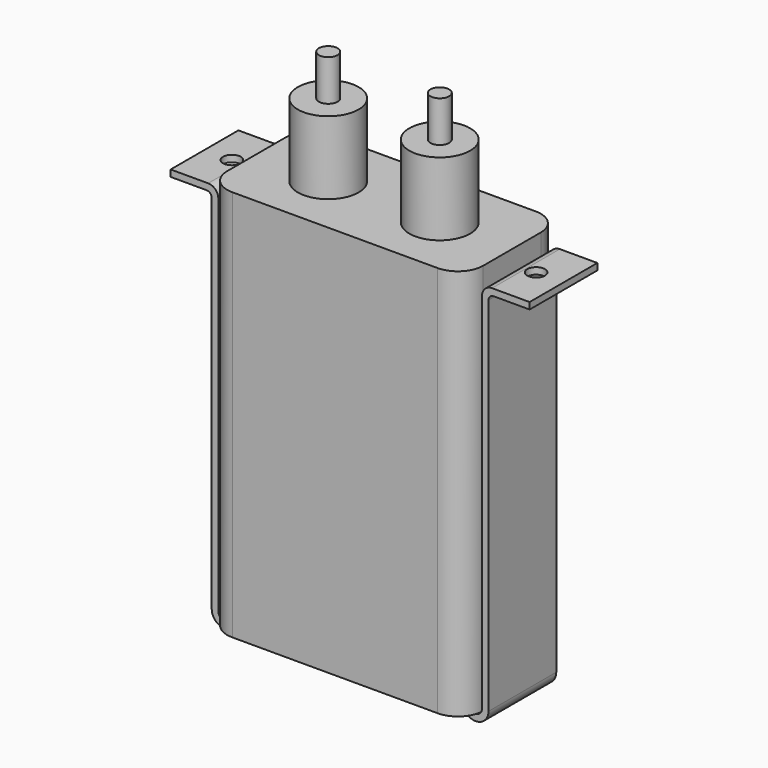
from build123d import *

# Parameters (mm, degrees)
F0_R     = 7.62
F0_R_2   = 2.3495
F1_DEPTH = 98.171
F2_DEPTH = 18.288
F3_DEPTH = 28.575
F5_DEPTH = 4.445
F7_DEPTH = 10.6045
F8_R     = 2.2225
F9_DEPTH = 2.54


with BuildPart() as f1:
    # F0 (on Top) → F1 (new body)
    with BuildSketch(Plane.XY):
        with BuildLine():
            ThreePointArc((32.0675, 9.017), (30.207628, 13.507128), (25.7175, 15.367))
            Line((25.7175, 15.367), (-25.7175, 15.367))
            ThreePointArc((-25.7175, 15.367), (-30.207628, 13.507128), (-32.0675, 9.017))
            Line((-32.0675, 9.017), (-32.0675, -9.017))
            ThreePointArc((-32.0675, -9.017), (-30.207628, -13.507128), (-25.7175, -15.367))
            Line((-25.7175, -15.367), (25.7175, -15.367))
            ThreePointArc((25.7175, -15.367), (30.207628, -13.507128), (32.0675, -9.017))
            Line((32.0675, -9.017), (32.0675, 9.017))
        make_face()
        with Locations((-13.97, 0)):
            Circle(F0_R, mode=Mode.SUBTRACT)
        with Locations((13.97, 0)):
            Circle(F0_R, mode=Mode.SUBTRACT)
        with Locations((-13.97, 0)):
            Circle(F0_R)
        with Locations((-13.97, 0)):
            Circle(F0_R_2, mode=Mode.SUBTRACT)
        with Locations((-13.97, 0)):
            Circle(F0_R_2)
        with Locations((13.97, 0)):
            Circle(F0_R)
        with Locations((13.97, 0)):
            Circle(F0_R_2, mode=Mode.SUBTRACT)
        with Locations((13.97, 0)):
            Circle(F0_R_2)
    extrude(amount=-F1_DEPTH)

    # F0 (on Top) → F2 (join)
    with BuildSketch(Plane.XY):
        with Locations((-13.97, 0)):
            Circle(F0_R)
        with Locations((-13.97, 0)):
            Circle(F0_R_2, mode=Mode.SUBTRACT)
        with Locations((-13.97, 0)):
            Circle(F0_R_2)
        with Locations((13.97, 0)):
            Circle(F0_R)
        with Locations((13.97, 0)):
            Circle(F0_R_2, mode=Mode.SUBTRACT)
        with Locations((13.97, 0)):
            Circle(F0_R_2)
    extrude(amount=F2_DEPTH)

    # F0 (on Top) → F3 (join)
    with BuildSketch(Plane.XY):
        with Locations((-13.97, 0)):
            Circle(F0_R_2)
        with Locations((13.97, 0)):
            Circle(F0_R_2)
    extrude(amount=F3_DEPTH)

    # F4 (on face) → F5 (cut)
    with BuildSketch(Plane(origin=(0, 0, -98.171), x_dir=(1, 0, 0), z_dir=(0, 0, -1))):
        with BuildLine():
            Line((25.0825, 14.097), (-25.0825, 14.097))
            ThreePointArc((-25.0825, 14.097), (-29.123615, 12.423115), (-30.7975, 8.382))
            Line((-30.7975, 8.382), (-30.7975, -8.382))
            ThreePointArc((-30.7975, -8.382), (-29.123615, -12.423115), (-25.0825, -14.097))
            Line((-25.0825, -14.097), (25.0825, -14.097))
            ThreePointArc((25.0825, -14.097), (29.123615, -12.423115), (30.7975, -8.382))
            Line((30.7975, -8.382), (30.7975, 8.382))
            ThreePointArc((30.7975, 8.382), (29.123615, 12.423115), (25.0825, 14.097))
        make_face()
    extrude(amount=-F5_DEPTH, mode=Mode.SUBTRACT)

    # F6 (on Front) → F7 (join, symmetric)
    with BuildSketch(Plane.XZ):
        with BuildLine():
            ThreePointArc((-29.845, -96.764594), (-31.4325, -98.352094), (-33.02, -96.764594))
            Line((-33.02, -96.764594), (-33.02, -5.715))
            ThreePointArc((-33.02, -5.715), (-33.763949, -3.918949), (-35.56, -3.175))
            Line((-35.56, -3.175), (-44.958, -3.175))
            Line((-44.958, -3.175), (-44.958, -4.826))
            Line((-44.958, -4.826), (-35.941, -4.826))
            ThreePointArc((-35.941, -4.826), (-35.042974, -5.197974), (-34.671, -6.096))
            Line((-34.671, -6.096), (-34.671, -96.764594))
            ThreePointArc((-34.671, -96.764594), (-31.4325, -100.003094), (-28.194, -96.764594))
            Line((-28.194, -96.764594), (-29.845, -96.764594))
        make_face()
        with BuildLine():
            ThreePointArc((33.02, -96.764594), (31.4325, -98.352094), (29.845, -96.764594))
            Line((29.845, -96.764594), (28.194, -96.764594))
            ThreePointArc((28.194, -96.764594), (31.4325, -100.003094), (34.671, -96.764594))
            Line((34.671, -96.764594), (34.671, -6.096))
            ThreePointArc((34.671, -6.096), (35.042974, -5.197974), (35.941, -4.826))
            Line((35.941, -4.826), (44.958, -4.826))
            Line((44.958, -4.826), (44.958, -3.175))
            Line((44.958, -3.175), (35.56, -3.175))
            ThreePointArc((35.56, -3.175), (33.763949, -3.918949), (33.02, -5.715))
            Line((33.02, -5.715), (33.02, -96.764594))
        make_face()
    extrude(amount=F7_DEPTH, both=True)

    # F8 (on face) → F9 (cut)
    with BuildSketch(Plane.XY.offset(-3.175)):
        with Locations((38.1, 0)):
            Circle(F8_R)
        with Locations((-38.1, 0)):
            Circle(F8_R)
    extrude(amount=-F9_DEPTH, mode=Mode.SUBTRACT)


solid = f1.part
